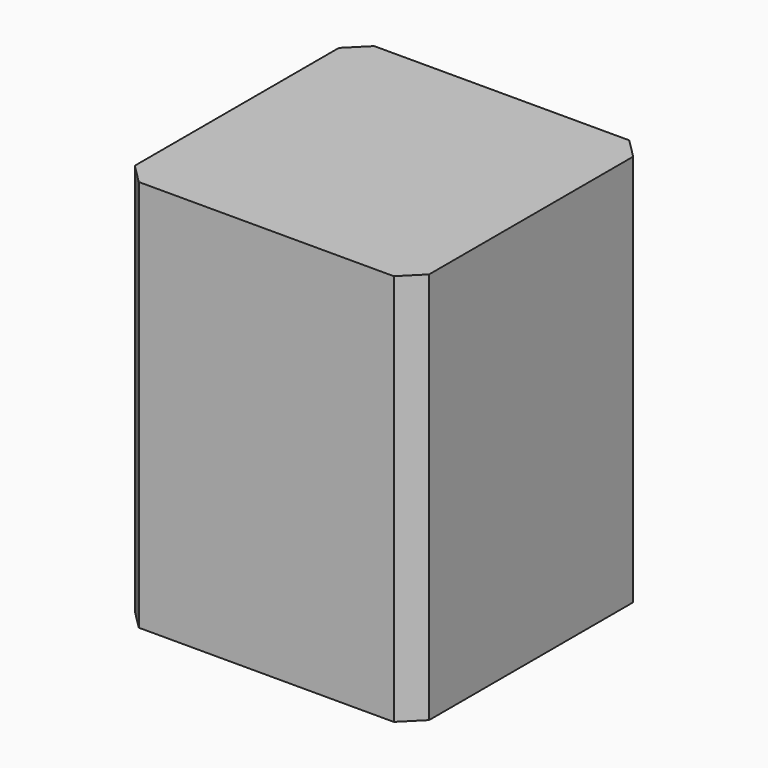
from build123d import *

# Parameters (mm, degrees)
F0_W     = 76.2
F0_H     = 76.2
F1_DEPTH = 101.6
F2_SIZE  = 5.08


with BuildPart() as f1:
    # F0 (on Top) → F1 (new body)
    with BuildSketch(Plane.XY):
        Rectangle(F0_W, F0_H)
    extrude(amount=F1_DEPTH)

    # F2
    f2_edges = [f1.edges().sort_by_distance(p)[0] for p in [
        (-38.1, -38.1, 50.8),
        (-38.1, 38.1, 50.8),
        (38.1, -38.1, 50.8),
        (38.1, 38.1, 50.8),
    ]]
    chamfer(f2_edges, length=F2_SIZE)


solid = f1.part
